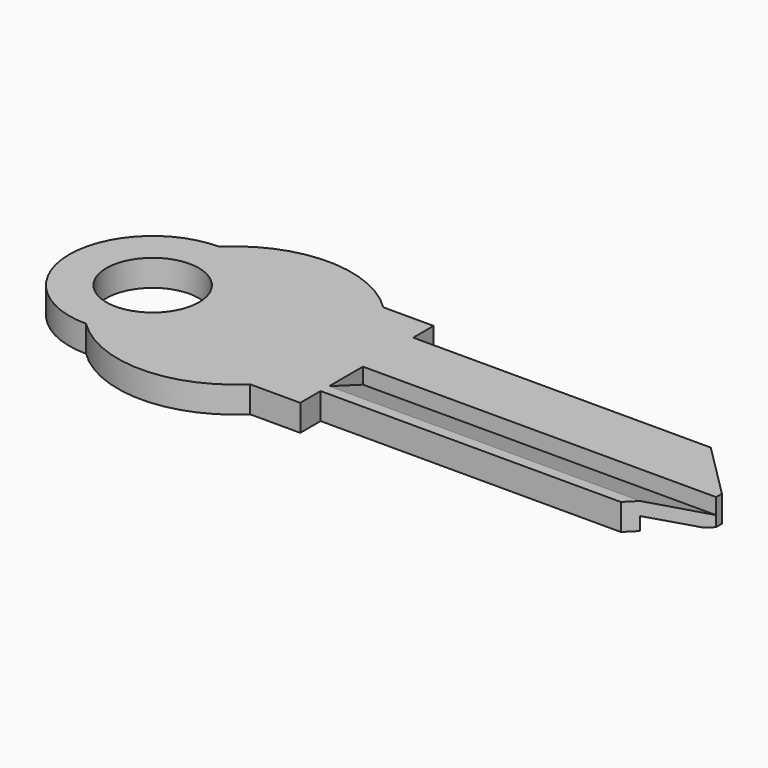
from build123d import *

# Parameters (mm, degrees)
F0_R     = 3.5
F1_DEPTH = 2
F3_DEPTH = 26.7
F5_DEPTH = 2.001


with BuildPart() as f1:
    # F0 (on Top) → F1 (new body)
    with BuildSketch(Plane.XY):
        with BuildLine():
            Line((6.2, -6.3), (10, -6.3))
            Line((10, -6.3), (10, 6.3))
            Line((10, 6.3), (6.2, 6.3))
            ThreePointArc((6.2, 6.3), (0, 8.839118), (-6.2, 6.3))
            ThreePointArc((-6.2, 6.3), (-12.5, 0), (-6.2, -6.3))
            ThreePointArc((-6.2, -6.3), (0, -8.839118), (6.2, -6.3))
        make_face()
        with Locations((-6.2, 0)):
            Circle(F0_R, mode=Mode.SUBTRACT)
    extrude(amount=F1_DEPTH)

    # F2 (on face) → F3 (join)
    with BuildSketch(Plane.YZ.offset(10)):
        Polygon((-0.875, 0), (0.675, 0), (0.675, 1), (4.375, 1), (4.375, 2), (-0.375, 2), (-0.375, 0.8), (-3.575, 2), (-4.375, 2), (-4.375, 0), (-3.575, 0), (-3.575, 1), align=None)
    extrude(amount=F3_DEPTH)

    # F4 (on face) → F5 (cut, through all)
    with BuildSketch(Plane.XY.offset(2)):
        Polygon((36.7, 0.175), (36.7, 4.375), (32.5, 4.375), align=None)
        Polygon((32.7, -4.375), (36.7, -4.375), (36.7, -0.375), align=None)
    extrude(amount=-F5_DEPTH, mode=Mode.SUBTRACT)


solid = f1.part
